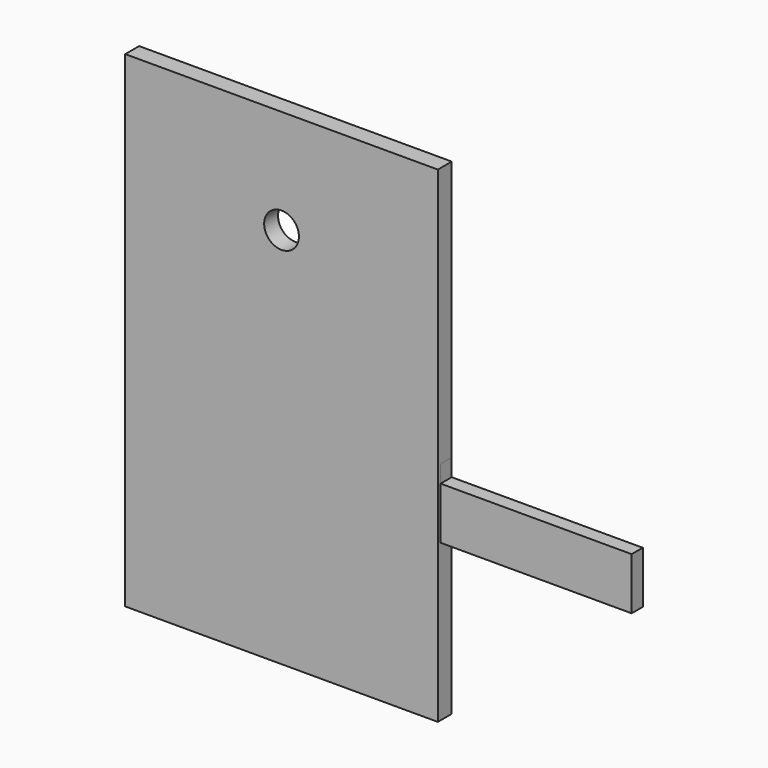
from build123d import *

# Parameters (mm, degrees)
F1_DEPTH  = 8
F2_W      = 220
F2_H      = 30
F3_DEPTH  = 8
F4_W      = 270
F4_H      = 30
F5_DEPTH  = 8
F6_W      = 180
F6_H      = 280
F6_R      = 10
F7_DEPTH  = 10
F8_W      = 100
F8_H      = 55
F9_DEPTH  = 4
F10_W     = 100
F10_H     = 100
F10_R     = 2
F10_R_2   = 10
F11_DEPTH = 4
F13_DEPTH = 8
F15_DEPTH = 8
F16_W     = 50
F16_H     = 50
F17_DEPTH = 4
F19_DEPTH = 8
F20_W     = 20
F20_H     = 40
F21_DEPTH = 4


with BuildPart() as f1:
    # F0 (on Front) → F1 (new body)
    with BuildSketch(Plane.XZ):
        Polygon((-30, 80), (-30, -60), (50, -60), (10, 80), align=None)
    extrude(amount=F1_DEPTH)


with BuildPart() as f3:
    # F2 (on Front) → F3 (new body)
    with BuildSketch(Plane.XZ):
        with Locations((50, 15)):
            Rectangle(F2_W, F2_H)
    extrude(amount=F3_DEPTH)


with BuildPart() as f5:
    # F4 (on Front) → F5 (new body)
    with BuildSketch(Plane.XZ):
        with Locations((64.999996, 15)):
            Rectangle(F4_W, F4_H)
    extrude(amount=F5_DEPTH)


with BuildPart() as f7:
    # F6 (on Front) → F7 (new body)
    with BuildSketch(Plane.XZ):
        with Locations((0, 50)):
            Rectangle(F6_W, F6_H)
        with Locations((0, 130)):
            Circle(F6_R, mode=Mode.SUBTRACT)
    extrude(amount=F7_DEPTH)


with BuildPart() as f9:
    # F8 (on Front) → F9 (new body)
    with BuildSketch(Plane.XZ):
        with Locations((0, -2.5)):
            Rectangle(F8_W, F8_H)
    extrude(amount=F9_DEPTH)


with BuildPart() as f11:
    # F10 (on Front) → F11 (new body)
    with BuildSketch(Plane.XZ):
        Rectangle(F10_W, F10_H)
        with Locations((30, -30)):
            Circle(F10_R, mode=Mode.SUBTRACT)
        with Locations((-30, 30)):
            Circle(F10_R, mode=Mode.SUBTRACT)
        Circle(F10_R_2, mode=Mode.SUBTRACT)
    extrude(amount=F11_DEPTH)


with BuildPart() as f13:
    # F12 (on Front) → F13 (new body)
    with BuildSketch(Plane.XZ):
        Polygon((-35, 0), (-35, -40), (35, -40), (35, 0), (90, 0), (90, 40), (-90, 40), (-90, 0), align=None)
    extrude(amount=F13_DEPTH)


with BuildPart() as f15:
    # F14 (on Front) → F15 (new body)
    with BuildSketch(Plane.XZ):
        Polygon((60, -70), (60, -50), (-20, -50), (-20, 20.121846), (18.890873, 59.012719), (4.237276, 72.624189), (-40, 25), (-40, -70), align=None)
    extrude(amount=F15_DEPTH)


with BuildPart() as f17:
    # F16 (on Front) → F17 (new body)
    with BuildSketch(Plane.XZ):
        Rectangle(F16_W, F16_H)
    extrude(amount=F17_DEPTH)


with BuildPart() as f19:
    # F18 (on Front) → F19 (new body)
    with BuildSketch(Plane.XZ):
        Polygon((-10, 10), (-10, -10), (10, -10), align=None)
    extrude(amount=F19_DEPTH)


with BuildPart() as f21:
    # F20 (on Front) → F21 (new body)
    with BuildSketch(Plane.XZ):
        Rectangle(F20_W, F20_H)
    extrude(amount=F21_DEPTH)


solid = Compound([f1.part, f3.part, f5.part, f7.part, f9.part, f11.part, f13.part, f15.part, f17.part, f19.part, f21.part])
